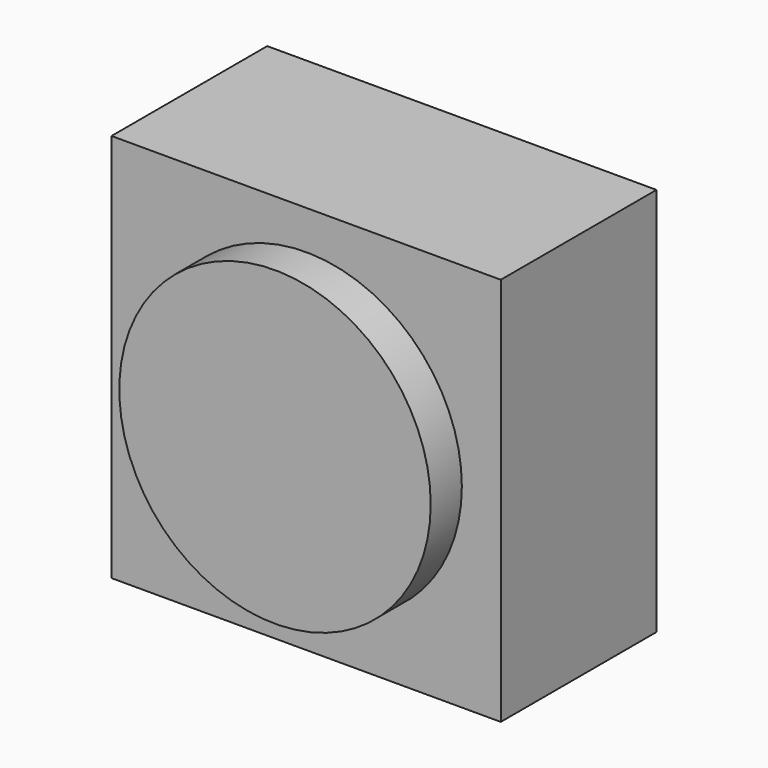
from build123d import *

# Parameters (mm, degrees)
F0_W     = 12.7
F0_H     = 25.4
F1_DEPTH = 6.35
F2_DEPTH = 6.35
F3_R     = 10.16
F4_DEPTH = 2.54


with BuildPart() as f1:
    # F0 (on Front) → F1 (new body, symmetric)
    with BuildSketch(Plane.XZ):
        Rectangle(F0_W, F0_H)
    extrude(amount=F1_DEPTH, both=True)

    # F0 (on Front) → F2 (join, symmetric)
    with BuildSketch(Plane.XZ):
        with Locations((-12.7, 0)):
            Rectangle(F0_W, F0_H)
    extrude(amount=F2_DEPTH, both=True)

    # F3 (on face) → F4 (join)
    with BuildSketch(Plane.XZ.offset(6.35)):
        with Locations((-6.35, 0)):
            Circle(F3_R)
    extrude(amount=F4_DEPTH)


solid = f1.part
